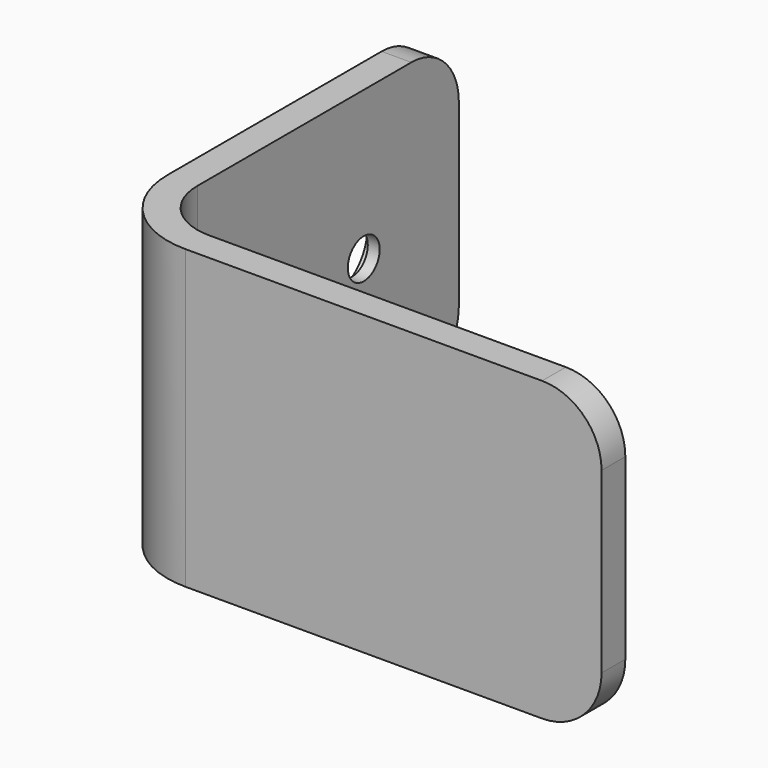
from build123d import *

# Parameters (mm, degrees)
PAD_DEPTH       = 50
SKETCH001_R     = 3.35
POCKET_DEPTH    = 5.001
FILLET_R        = 10
SKETCH002_R     = 7
POCKET001_DEPTH = 3.001


with BuildPart() as part:
    # Sketch → Pad (new body)
    with BuildSketch(Plane.XY):
        with BuildLine():
            Line((0, 65), (0, 10))
            ThreePointArc((0, 10), (2.928932, 2.928932), (10, 0))
            Line((10, 0), (80, 0))
            Line((80, 0), (80, -5))
            Line((80, -5), (10, -5))
            ThreePointArc((-5, 10), (-0.606602, -0.606602), (10, -5))
            Line((-5, 10), (-5, 65))
            Line((-5, 65), (0, 65))
        make_face()
    extrude(amount=PAD_DEPTH)

    # Sketch001 → Pocket (cut, through all)
    with BuildSketch(Plane.YZ):
        with Locations((45, 25)):
            Circle(SKETCH001_R)
    extrude(amount=-POCKET_DEPTH, mode=Mode.SUBTRACT)

    # Fillet
    fillet_edges = [part.edges().sort_by_distance(p)[0] for p in [
        (-2.5, 65, 0),
        (-2.5, 65, 50),
        (80, -2.5, 50),
        (80, -2.5, 0),
    ]]
    fillet(fillet_edges, radius=FILLET_R)

    # Sketch002 → Pocket001 (cut, through all)
    with BuildSketch(Plane.YZ.offset(-2)):
        with Locations((45, 25)):
            Circle(SKETCH002_R)
    extrude(amount=-POCKET001_DEPTH, mode=Mode.SUBTRACT)


solid = part.part
